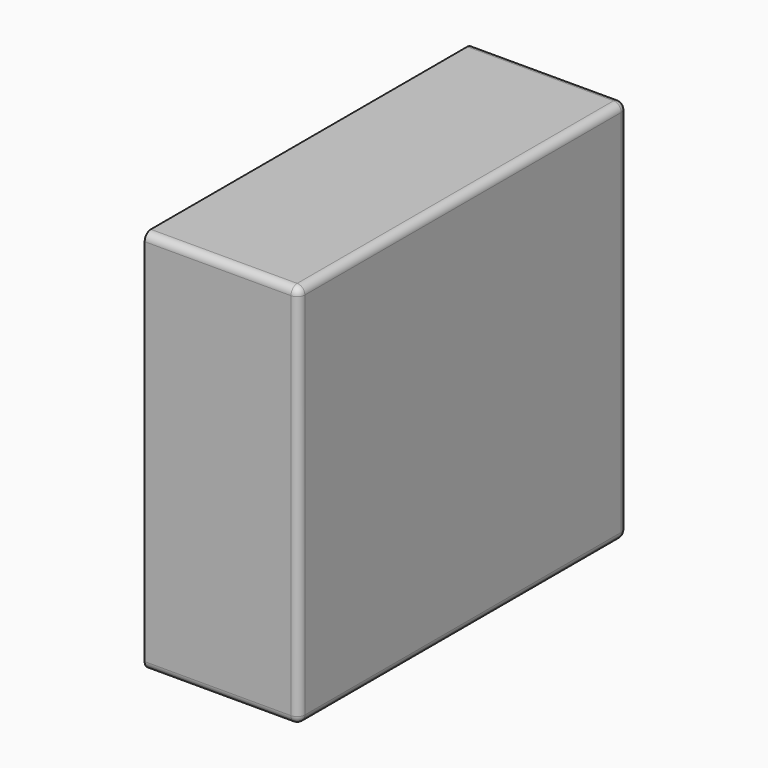
from build123d import *

# Parameters (mm, degrees)
BOX021_W     = 0.6
BOX021_H     = 1.6
BOX021_DEPTH = 1.5
FILLET027_R  = 0.03


with BuildPart() as fillet027:
    # Box021 → Box021 (new body)
    with BuildSketch(Plane.XY):
        with Locations((0.3, 0.8)):
            Rectangle(BOX021_W, BOX021_H)
    extrude(amount=BOX021_DEPTH)

    # Fillet027
    fillet027_edges = [fillet027.edges().sort_by_distance(p)[0] for p in [
        (0, 0, 0.75),
        (0, 0.8, 1.5),
        (0, 1.6, 0.75),
        (0, 0.8, 0),
        (0.3, 0, 0),
        (0.3, 0, 1.5),
        (0.3, 1.6, 0),
        (0.3, 1.6, 1.5),
    ]]
    fillet(fillet027_edges, radius=FILLET027_R)


with BuildPart() as part_mirroring019:
    # Part__Mirroring019: instance of Fillet027
    add(fillet027.part.mirror(Plane(origin=(1.6, 0, 0), x_dir=(0, -1, 0), z_dir=(1, 0, 0))))


solid = part_mirroring019.part
